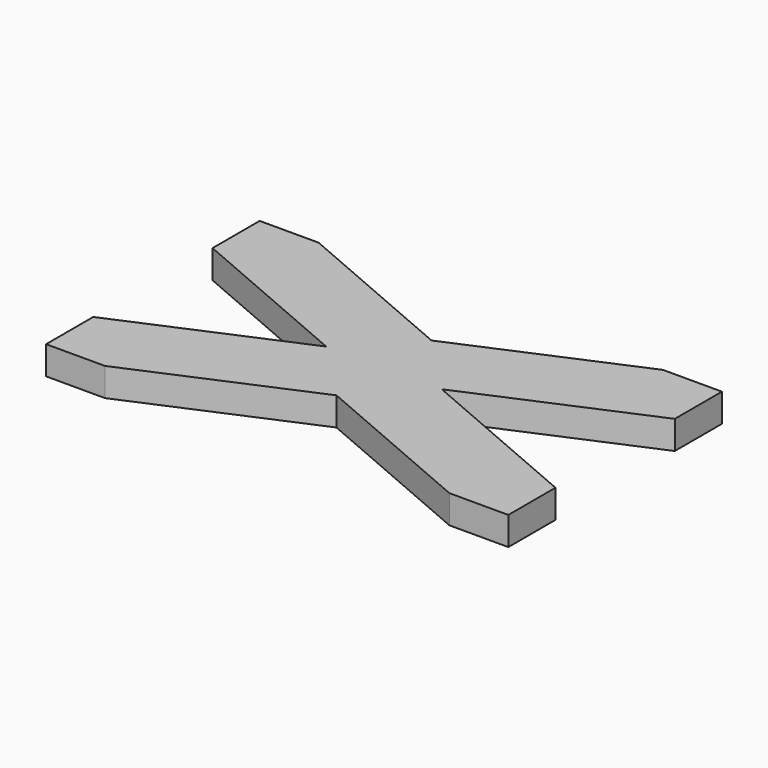
from build123d import *

# Parameters (mm, degrees)
F1_DEPTH = 38


with BuildPart() as f1:
    # F0 (on Top) → F1 (new body)
    with BuildSketch(Plane.XY):
        Polygon((-77.5, 0), (-309.9, -100), (-309.9, -179), (-230.9, -179), (0, -79.645439), (230.9, -179), (309.9, -179), (309.9, -100), (77.5, 0), (309.9, 100), (309.9, 179), (230.9, 179), (0, 79.645439), (-230.9, 179), (-309.9, 179), (-309.9, 100), align=None)
    extrude(amount=F1_DEPTH)


solid = f1.part
